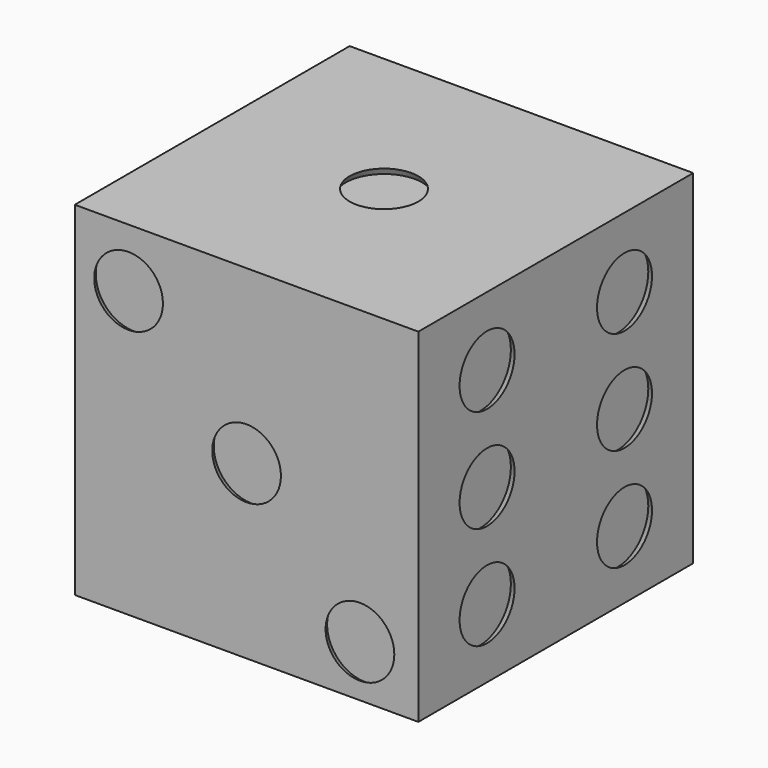
from build123d import *

# Parameters (mm, degrees)
F0_W     = 25.4
F0_H     = 25.4
F1_DEPTH = 25.4
F2_R     = 2.54
F3_DEPTH = 0.508
F3_TAPER = -30
F4_R     = 2.54
F5_DEPTH = 0.508
F5_TAPER = -30
F6_R     = 2.54
F7_DEPTH = 0.508
F7_TAPER = -30


with BuildPart() as f1:
    # F0 (on Front) → F1 (new body)
    with BuildSketch(Plane.XZ):
        Rectangle(F0_W, F0_H)
    extrude(amount=F1_DEPTH)

    # F2 (on face) → F3 (cut)
    with BuildSketch(Plane.XY.offset(12.7)):
        with Locations((0, -12.7)):
            Circle(F2_R)
    extrude(amount=-F3_DEPTH, taper=F3_TAPER, mode=Mode.SUBTRACT)

    # F4 (on face) → F5 (cut)
    with BuildSketch(Plane.XZ.offset(25.4)):
        with Locations((-8.7234472609, 8.382)):
            Circle(F4_R)
        Circle(F4_R)
        with Locations((8.3820009604, -8.890000172)):
            Circle(F4_R)
    extrude(amount=-F5_DEPTH, taper=F5_TAPER, mode=Mode.SUBTRACT)

    # F6 (on face) → F7 (cut)
    with BuildSketch(Plane.YZ.offset(12.7)):
        with Locations((-6.35, 7.5403870248)):
            Circle(F6_R)
        with Locations((-6.35, -0.0796129752)):
            Circle(F6_R)
        with Locations((-6.35, -7.6996129752)):
            Circle(F6_R)
        with Locations((-19.05, 0)):
            Circle(F6_R)
        with Locations((-19.05, 7.62)):
            Circle(F6_R)
        with Locations((-19.05, -7.62)):
            Circle(F6_R)
    extrude(amount=-F7_DEPTH, taper=F7_TAPER, mode=Mode.SUBTRACT)


solid = f1.part
